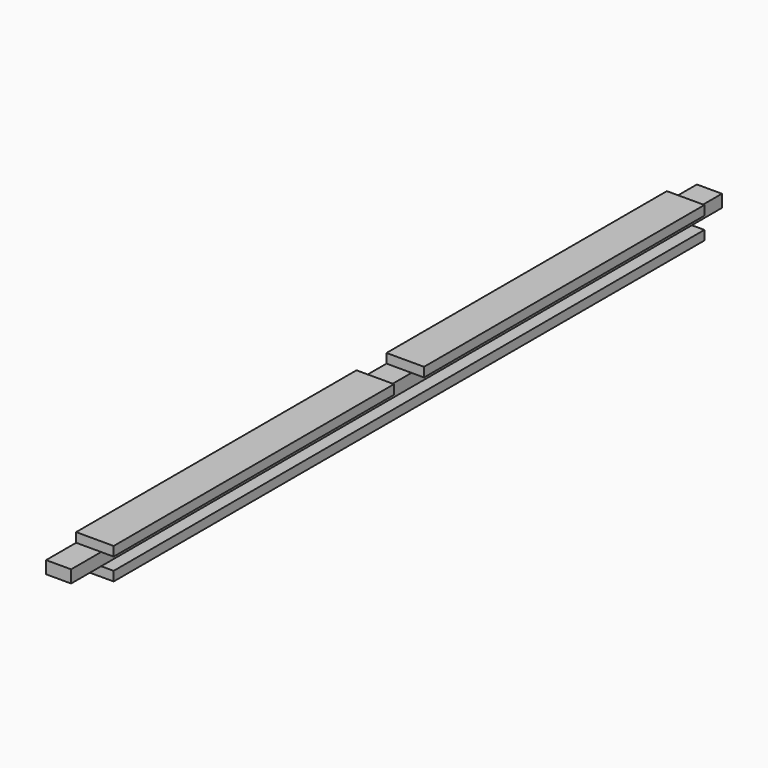
from build123d import *

# Parameters (mm, degrees)
F1_DEPTH      = 206.375
F2_W          = 19.05
F2_H          = 4.7625
F3_DEPTH      = 9.526
F3_DEPTH_BACK = 9.526


with BuildPart() as f1:
    # F0 (on Front) → F1 (new body, symmetric)
    with BuildSketch(Plane.XZ):
        Polygon((9.525, 7.9375), (-9.525, 7.9375), (-9.525, -7.9375), (9.525, -7.9375), (9.525, -3.175), (3.175, -3.175), (3.175, 3.175), (9.525, 3.175), align=None)
    extrude(amount=F1_DEPTH, both=True)

    # F2 (on Right) → F3 (cut, two sides)
    with BuildSketch(Plane.YZ) as f3_sk:
        with Locations((-196.85, 5.55625)):
            Rectangle(F2_W, F2_H)
        with Locations((-196.85, -5.55625)):
            Rectangle(F2_W, F2_H)
        with Locations((196.85, 5.55625)):
            Rectangle(F2_W, F2_H)
        with Locations((196.85, -5.55625)):
            Rectangle(F2_W, F2_H)
        with Locations((0, 5.55625)):
            Rectangle(F2_W, F2_H)
    extrude(amount=-F3_DEPTH, mode=Mode.SUBTRACT)
    extrude(f3_sk.sketch, amount=F3_DEPTH_BACK, mode=Mode.SUBTRACT)


solid = f1.part
